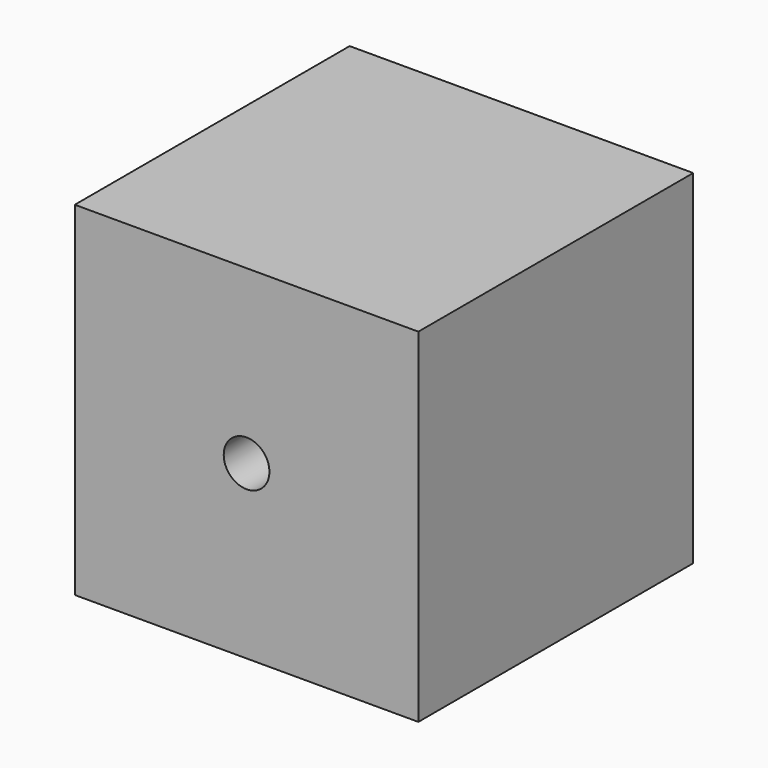
from build123d import *

# Parameters (mm, degrees)
F0_W     = 50.8
F0_H     = 50.8
F1_DEPTH = 50.8
F3_D     = 6.7564


with BuildPart() as f1:
    # F0 (on Top) → F1 (new body)
    with BuildSketch(Plane.XY):
        with Locations((25.4, 25.4)):
            Rectangle(F0_W, F0_H)
    extrude(amount=F1_DEPTH)

    # F3 (through all)
    with Locations(Plane.XZ):
        with Locations((25.4, 25.4)):
            Hole(F3_D / 2)


solid = f1.part
